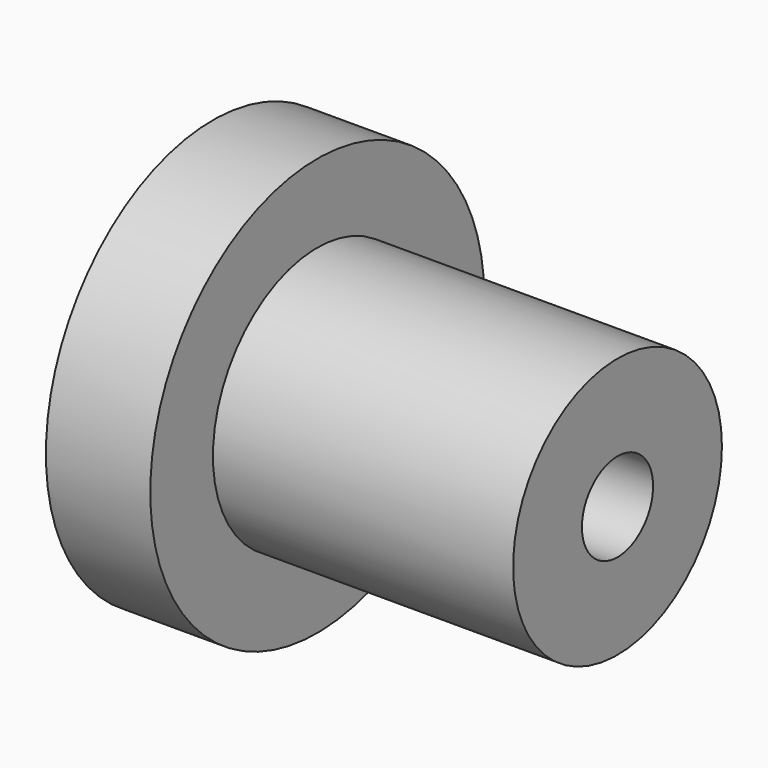
from build123d import *

# Parameters (mm, degrees)
F0_R     = 12.7
F0_R_2   = 7.9375
F1_DEPTH = 6.35
F0_R_3   = 4.7625
F2_DEPTH = 24.60625
F3_R     = 4.7625
F3_R_2   = 3.175
F4_DEPTH = 5.08
F5_DEPTH = 5.08
F6_D     = 5.4102


with BuildPart() as f1:
    # F0 (on Right) → F1 (new body)
    with BuildSketch(Plane.YZ):
        Circle(F0_R)
        Circle(F0_R_2, mode=Mode.SUBTRACT)
    extrude(amount=F1_DEPTH)

    # F0 (on Right) → F2 (join)
    with BuildSketch(Plane.YZ):
        Circle(F0_R_2)
        Circle(F0_R_3, mode=Mode.SUBTRACT)
    extrude(amount=F2_DEPTH)

    # F3 (on face) → F4 (join)
    with BuildSketch(Plane.YZ.offset(24.60625)):
        Circle(F3_R)
        Circle(F3_R_2, mode=Mode.SUBTRACT)
    extrude(amount=-F4_DEPTH)

    # F3 (on face) → F5 (join)
    with BuildSketch(Plane.YZ.offset(24.60625)):
        Circle(F3_R_2)
    extrude(amount=-F5_DEPTH)

    # F6 (through all)
    with Locations(Plane.YZ.offset(24.60625)):
        with Locations((0, 0)):
            Hole(F6_D / 2)


solid = f1.part
